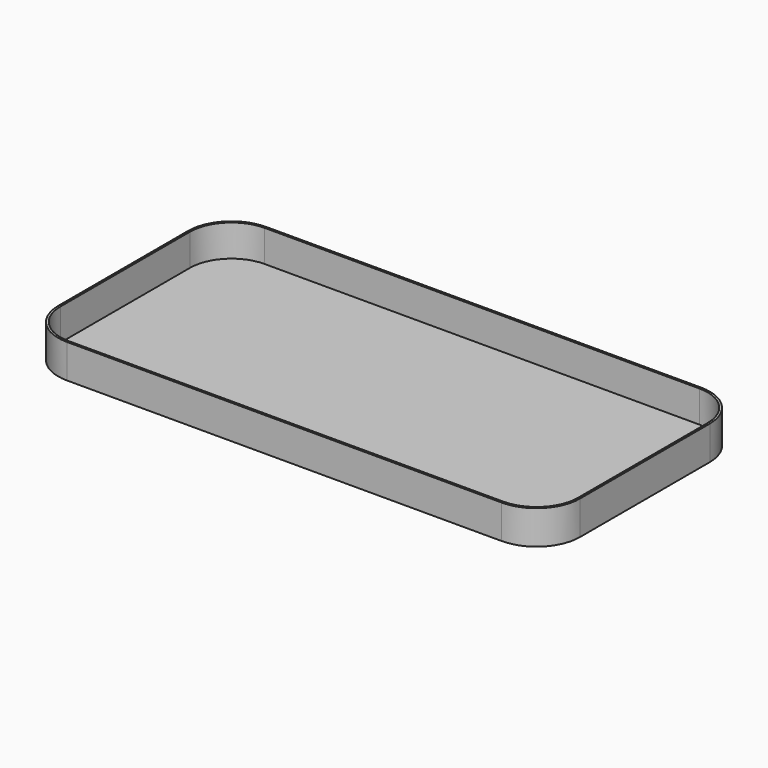
from build123d import *

# Parameters (mm, degrees)
F0_W     = 124.8
F0_H     = 59.6
F1_DEPTH = 8.1
F2_R     = 10.4
F3_R     = 10.4
F4_T     = -0.5


with BuildPart() as f1:
    # F0 (on Top) → F1 (new body)
    with BuildSketch(Plane.XY):
        with Locations((-62.4, -29.8)):
            Rectangle(F0_W, F0_H)
    extrude(amount=F1_DEPTH)

    # F2
    f2_edges = [f1.edges().sort_by_distance(p)[0] for p in [
        (0, -59.6, 4.05),
    ]]
    fillet(f2_edges, radius=F2_R)

    # F3
    f3_edges = [f1.edges().sort_by_distance(p)[0] for p in [
        (0, 0, 4.05),
        (-124.8, -59.6, 4.05),
        (-124.8, 0, 4.05),
    ]]
    fillet(f3_edges, radius=F3_R)

    # F4
    f4_openings = [f1.faces().sort_by_distance(p)[0] for p in [
        (-62.4, -29.8, 8.1),
    ]]
    offset(amount=F4_T, openings=f4_openings)


solid = f1.part
